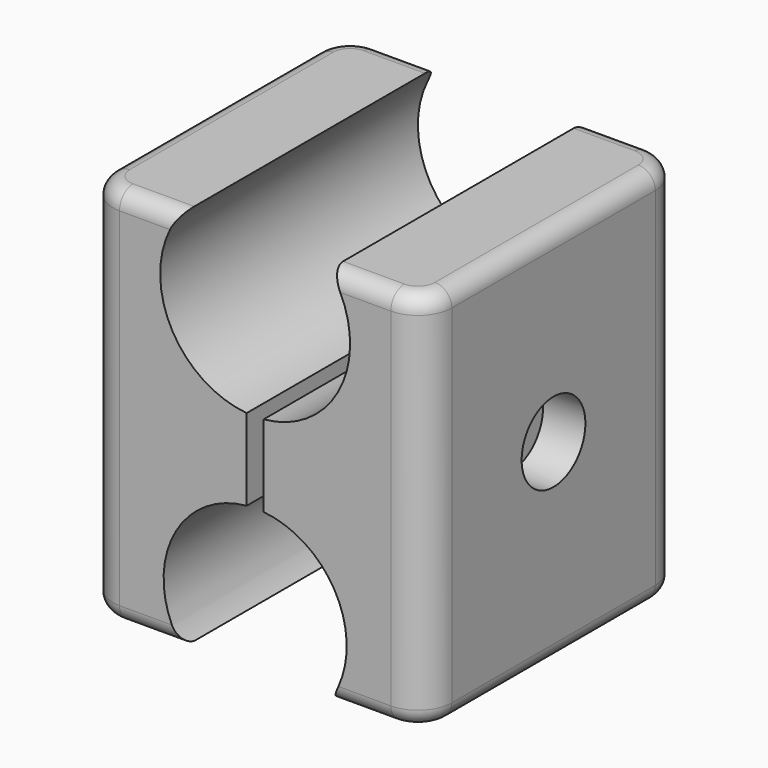
from build123d import *

# Parameters (mm, degrees)
PAD_DEPTH       = 45
SKETCH008_R     = 11.2
SKETCH008_R_2   = 10.8
POCKET_DEPTH    = 38.001
SKETCH009_R     = 2.7
POCKET001_DEPTH = 40.001
SKETCH010_R     = 4.7
POCKET002_DEPTH = 5
POCKET003_DEPTH = 4
SKETCH011_W     = 2
SKETCH011_H     = 32
POCKET004_DEPTH = 37.8
FILLET_R        = 2


with BuildPart() as part:
    # Sketch → Pad (new body)
    with BuildSketch(Plane.XY):
        with BuildLine():
            Line((-16, 19), (16, 19))
            ThreePointArc((20, 15), (18.828427, 17.828427), (16, 19))
            Line((20, 15), (20, -15))
            ThreePointArc((16, -19), (18.828427, -17.828427), (20, -15))
            Line((16, -19), (-16, -19))
            ThreePointArc((-20, -15), (-18.828427, -17.828427), (-16, -19))
            Line((-20, -15), (-20, 15))
            ThreePointArc((-16, 19), (-18.828427, 17.828427), (-20, 15))
        make_face()
    extrude(amount=PAD_DEPTH)

    # Sketch008 → Pocket (cut, through all)
    with BuildSketch(Plane(origin=(0, 19, 0), x_dir=(-1, 0, 0), z_dir=(0, 1, 0))):
        with Locations((0, 38.034691)):
            Circle(SKETCH008_R)
        with Locations((0, 6.5)):
            Circle(SKETCH008_R_2)
    extrude(amount=-POCKET_DEPTH, mode=Mode.SUBTRACT)

    # Sketch009 → Pocket001 (cut, through all)
    with BuildSketch(Plane.YZ.offset(20)):
        with Locations((0, 23)):
            Circle(SKETCH009_R)
    extrude(amount=-POCKET001_DEPTH, mode=Mode.SUBTRACT)

    # Sketch010 → Pocket002 (cut)
    with BuildSketch(Plane.YZ.offset(20)):
        with Locations((0, 23)):
            Circle(SKETCH010_R)
    extrude(amount=-POCKET002_DEPTH, mode=Mode.SUBTRACT)

    # Sketch002 → Pocket003 (cut)
    with BuildSketch(Plane(origin=(-20, 0, 0), x_dir=(0, -1, 0), z_dir=(-1, 0, 0))):
        Polygon((4.156922, 23), (2.078461, 26.6), (-2.078461, 26.6), (-4.156922, 23), (-2.078461, 19.4), (2.078461, 19.4), align=None)
    extrude(amount=-POCKET003_DEPTH, mode=Mode.SUBTRACT)

    # Sketch011 → Pocket004 (cut)
    with BuildSketch(Plane.XZ.offset(19)):
        with Locations((0, 16)):
            Rectangle(SKETCH011_W, SKETCH011_H)
    extrude(amount=-POCKET004_DEPTH, mode=Mode.SUBTRACT)

    # Fillet
    fillet_edges = [part.edges().sort_by_distance(p)[0] for p in [
        (20, 0, 0),
        (20, 0, 45),
        (-20, 0, 0),
        (-20, 0, 45),
    ]]
    fillet(fillet_edges, radius=FILLET_R)


solid = part.part
